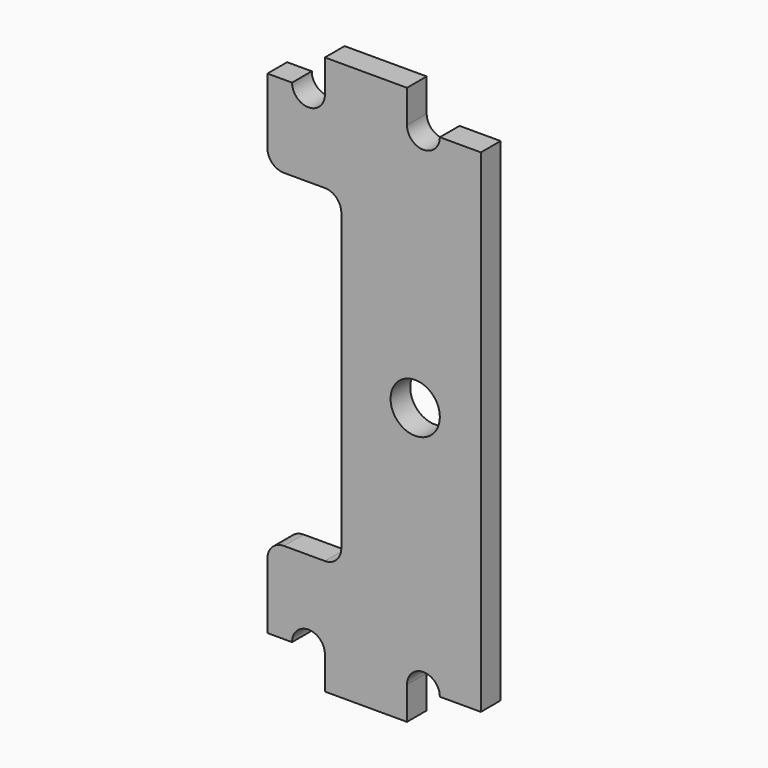
from build123d import *

# Parameters (mm, degrees)
F0_R     = 1.5
F1_DEPTH = 1.5


with BuildPart() as f1:
    # F0 (on Front) → F1 (new body)
    with BuildSketch(Plane.XZ):
        with BuildLine():
            Line((-4.5, 15), (-6, 15))
            Line((-6, 15), (-6, 11))
            ThreePointArc((-6, 11), (-5.707107, 10.292893), (-5, 10))
            Line((-5, 10), (-2.5, 10))
            ThreePointArc((-2.5, 10), (-1.792893, 9.707107), (-1.5, 9))
            Line((-1.5, 9), (-1.5, -9))
            ThreePointArc((-1.5, -9), (-1.792893, -9.707107), (-2.5, -10))
            Line((-2.5, -10), (-5, -10))
            ThreePointArc((-5, -10), (-5.707107, -10.292893), (-6, -11))
            Line((-6, -11), (-6, -15))
            Line((-6, -15), (-4.5, -15))
            ThreePointArc((-4.5, -15), (-3.5, -14), (-2.5, -15))
            Line((-2.5, -15), (-2.5, -17))
            Line((-2.5, -17), (2.5, -17))
            Line((2.5, -17), (2.5, -15))
            ThreePointArc((2.5, -15), (3.5, -14), (4.5, -15))
            Line((4.5, -15), (7, -15))
            Line((7, -15), (7, 15))
            Line((7, 15), (4.5, 15))
            ThreePointArc((4.5, 15), (3.5, 14), (2.5, 15))
            Line((2.5, 15), (2.5, 17))
            Line((2.5, 17), (-2.5, 17))
            Line((-2.5, 17), (-2.5, 15))
            ThreePointArc((-2.5, 15), (-3.5, 14), (-4.5, 15))
        make_face()
        with Locations((3, 0)):
            Circle(F0_R, mode=Mode.SUBTRACT)
    extrude(amount=F1_DEPTH)


solid = f1.part
